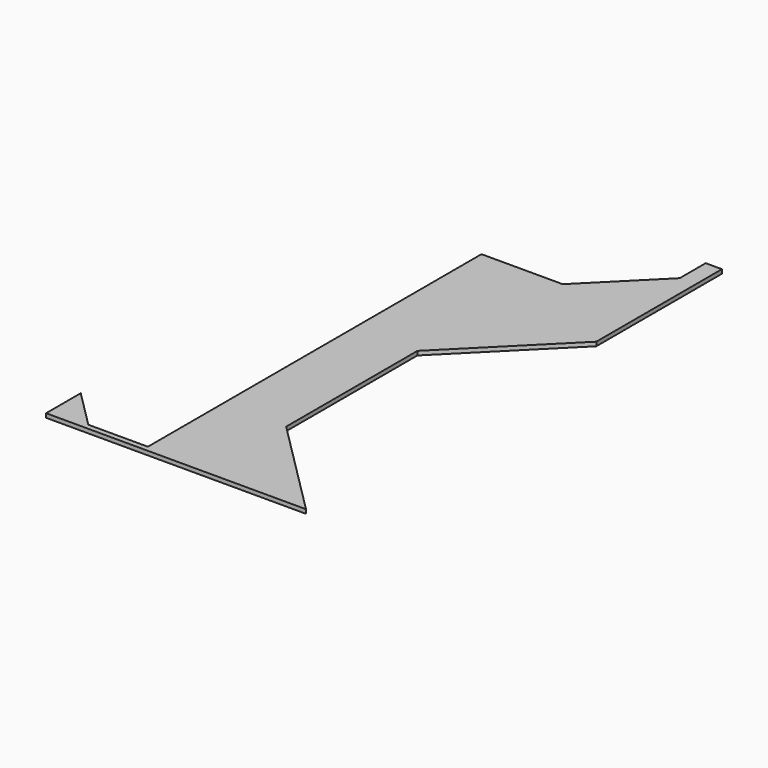
from build123d import *

# Parameters (mm, degrees)
F0_W     = 1219.2
F0_H     = 2438.4
F1_DEPTH = 19.05
F3_DEPTH = 25.4
F5_DEPTH = 25.4
F7_DEPTH = 25.4
F9_DEPTH = 25.4


with BuildPart() as f1:
    # F0 (on Top) → F1 (new body)
    with BuildSketch(Plane.XY):
        with Locations((567.030359, 1154.974982)):
            Rectangle(F0_W, F0_H)
    extrude(amount=-F1_DEPTH)

    # F2 (on face) → F3 (cut)
    with BuildSketch(Plane.XY):
        Polygon((414.630359, 1916.974982), (-42.569641, 2374.174982), (-42.569641, 672.374982), (414.630359, 1129.574982), align=None)
    extrude(amount=-F3_DEPTH, mode=Mode.SUBTRACT)

    # F4 (on face) → F5 (cut)
    with BuildSketch(Plane.XY):
        Polygon((414.630359, 1129.574982), (-42.569641, 672.374982), (-42.569641, 138.974982), (135.230359, -38.825018), (414.630359, -38.825018), align=None)
    extrude(amount=-F5_DEPTH, mode=Mode.SUBTRACT)

    # F6 (on face) → F7 (cut)
    with BuildSketch(Plane.XY):
        Polygon((-42.569641, 2374.174982), (414.630359, 1916.974982), (795.630359, 1916.974982), (1100.430359, 2221.774982), (1100.430359, 2374.174982), align=None)
    extrude(amount=-F7_DEPTH, mode=Mode.SUBTRACT)

    # F8 (on face) → F9 (cut)
    with BuildSketch(Plane.XY):
        Polygon((710.56071, 401.844631), (1176.630359, -64.225018), (1176.630359, 1637.574982), (710.56071, 1171.505333), align=None)
    extrude(amount=-F9_DEPTH, mode=Mode.SUBTRACT)


solid = f1.part
